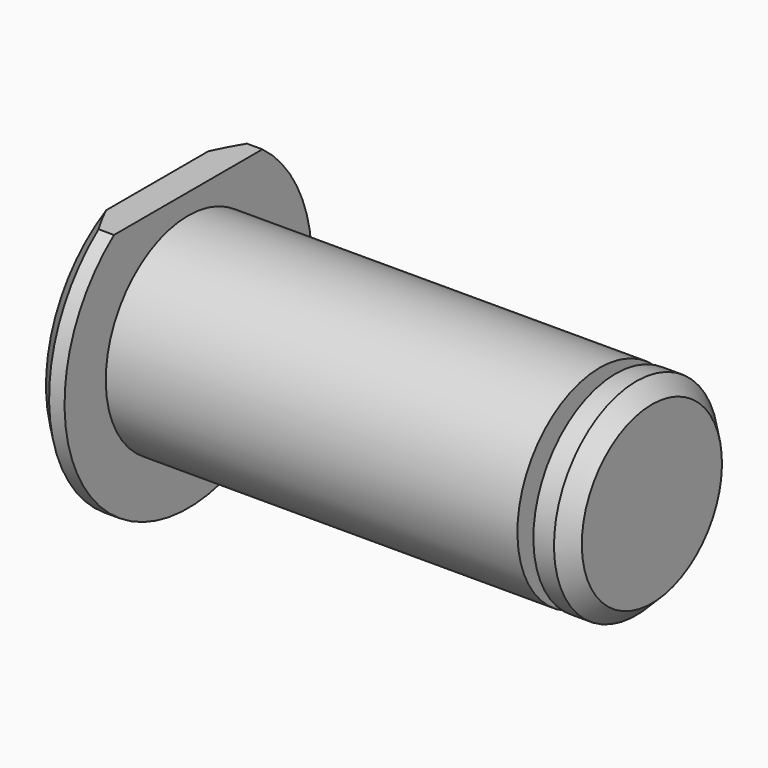
from build123d import *

# Parameters (mm, degrees)
F2_SIZE  = 1.5
F3_W     = 30
F3_H     = 3
F4_DEPTH = 3.001


with BuildPart() as f1:
    # F0 (on Front) → F1 (revolve)
    with BuildSketch(Plane.XZ):
        Polygon((0, 10), (0, 15), (-3, 15), (-3, 0), (45, 0), (45, 10), (41.5, 10), (41.5, 7.5), (39.95, 7.5), (39.95, 10), align=None)
    revolve(axis=Axis((21, 0, 0), (1, 0, 0)))

    # F2
    f2_edges = [f1.edges().sort_by_distance(p)[0] for p in [
        (45, 0, -10),
        (-3, 0, -15),
    ]]
    chamfer(f2_edges, length=F2_SIZE)

    # F3 (on Right) → F4 (cut, through all)
    with BuildSketch(Plane.YZ):
        with Locations((0, 13.5)):
            Rectangle(F3_W, F3_H)
    extrude(amount=-F4_DEPTH, mode=Mode.SUBTRACT)


solid = f1.part
